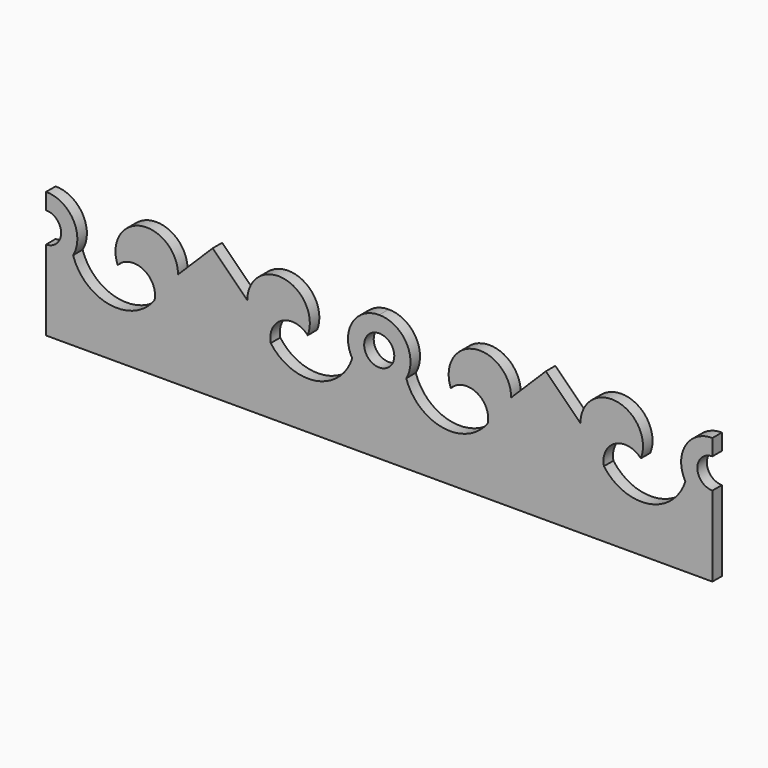
from build123d import *

# Parameters (mm, degrees)
F1_DEPTH = 20


with BuildPart() as f1:
    # F0 (on Front) → F1 (new body)
    with BuildSketch(Plane.XZ):
        with BuildLine():
            Line((-243.948296, 0), (-23.655106, 0))
            Line((-23.655106, 0), (35.758515, 0))
            Line((35.758515, 0), (35.758515, 134.605839))
            ThreePointArc((35.758515, 134.605839), (10.482419, 159.881935), (35.758515, 185.15803))
            Line((35.758515, 185.15803), (35.758515, 212.381935))
            ThreePointArc((35.758515, 212.381935), (-9.760743, 186.040054), (-9.601415, 133.448494))
            ThreePointArc((-9.601415, 133.448494), (-71.228, 80.303931), (-146.426282, 111.406968))
            ThreePointArc((-146.426282, 111.406968), (-127.497354, 150.930794), (-84.368653, 143.162118))
            ThreePointArc((-84.368653, 143.162118), (-123.578135, 213.830265), (-185.781664, 162.234805))
            Line((-185.781664, 162.234805), (-243.948296, 220))
            Line((-243.948296, 220), (-243.948296, 0))
        make_face()
        with BuildLine():
            Line((-464.241485, 0), (-243.948296, 0))
            Line((-243.948296, 0), (-243.948296, 220))
            Line((-243.948296, 220), (-302.114928, 162.234805))
            ThreePointArc((-302.114928, 162.234805), (-364.318457, 213.830265), (-403.527939, 143.162118))
            ThreePointArc((-403.527939, 143.162118), (-360.399238, 150.930794), (-341.470309, 111.406968))
            ThreePointArc((-341.470309, 111.406968), (-416.668592, 80.303931), (-478.295177, 133.448494))
            ThreePointArc((-478.295177, 133.448494), (-478.135849, 186.040054), (-523.655106, 212.381935))
            Line((-523.655106, 212.381935), (-523.655106, 185.15803))
            ThreePointArc((-523.655106, 185.15803), (-498.379011, 159.881935), (-523.655106, 134.605839))
            Line((-523.655106, 134.605839), (-523.655106, 0))
            Line((-523.655106, 0), (-464.241485, 0))
        make_face()
        with BuildLine():
            Line((-583.068727, 0), (-523.655106, 0))
            Line((-523.655106, 0), (-523.655106, 134.605839))
            ThreePointArc((-523.655106, 134.605839), (-548.931202, 159.881935), (-523.655106, 185.15803))
            Line((-523.655106, 185.15803), (-523.655106, 212.381935))
            ThreePointArc((-523.655106, 212.381935), (-569.174364, 186.040054), (-569.015036, 133.448494))
            ThreePointArc((-569.015036, 133.448494), (-630.641621, 80.303931), (-705.839903, 111.406968))
            ThreePointArc((-705.839903, 111.406968), (-686.910975, 150.930794), (-643.782274, 143.162118))
            ThreePointArc((-643.782274, 143.162118), (-682.991756, 213.830265), (-745.195285, 162.234805))
            Line((-745.195285, 162.234805), (-803.361917, 220))
            Line((-803.361917, 220), (-803.361917, 0))
            Line((-803.361917, 0), (-583.068727, 0))
        make_face()
        with BuildLine():
            Line((-1023.655106, 0), (-803.361917, 0))
            Line((-803.361917, 0), (-803.361917, 220))
            Line((-803.361917, 220), (-861.528549, 162.234805))
            ThreePointArc((-861.528549, 162.234805), (-923.732078, 213.830265), (-962.94156, 143.162118))
            ThreePointArc((-962.94156, 143.162118), (-919.812859, 150.930794), (-900.88393, 111.406968))
            ThreePointArc((-900.88393, 111.406968), (-976.082213, 80.303931), (-1037.708798, 133.448494))
            ThreePointArc((-1037.708798, 133.448494), (-1037.54947, 186.040054), (-1083.068727, 212.381935))
            Line((-1083.068727, 212.381935), (-1083.068727, 185.15803))
            ThreePointArc((-1083.068727, 185.15803), (-1057.792632, 159.881935), (-1083.068727, 134.605839))
            Line((-1083.068727, 134.605839), (-1083.068727, 0))
            Line((-1083.068727, 0), (-1023.655106, 0))
        make_face()
    extrude(amount=F1_DEPTH)


solid = f1.part
